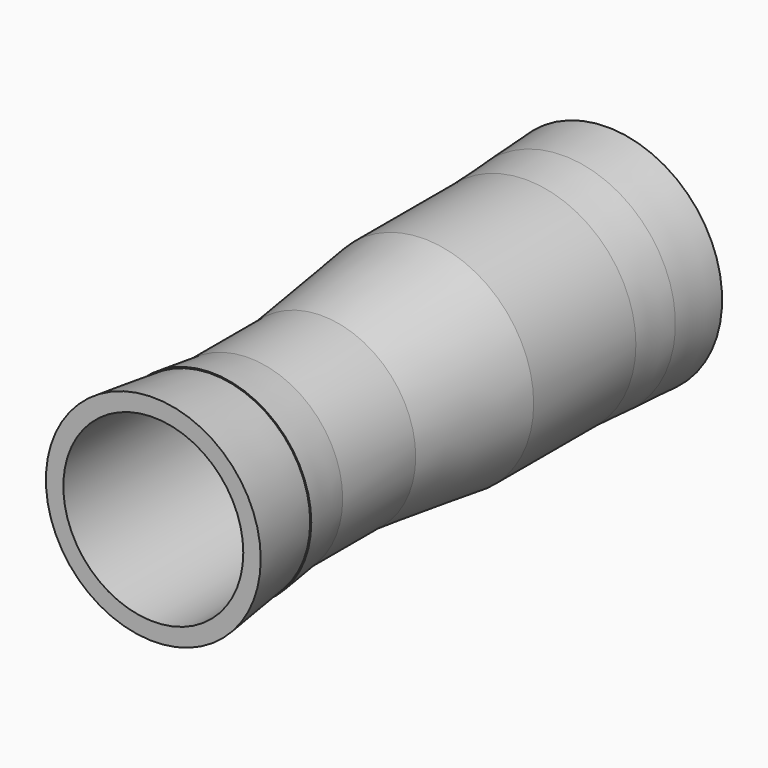
from build123d import *

# Parameters (mm, degrees)
F0_R      = 60
F1_DEPTH  = 70
F2_R      = 60
F3_DEPTH  = 70
F3_TAPER  = 7
F5_R      = 54.9341030365
F6_DEPTH  = 25.4
F7_R      = 47.9617586767
F8_DEPTH  = 205.994
F4_R      = 51.4050807368
F12_DEPTH = 50
F13_R     = 51.4050807368
F14_DEPTH = 25.4
F14_TAPER = -7
F15_R     = 53.9269190887
F16_DEPTH = 40
F16_TAPER = -7
F11_R     = 60
F17_DEPTH = 25.4
F17_TAPER = -3
F18_R     = 61.3311575938
F19_DEPTH = 30
F19_TAPER = -3
F20_R     = 46.550299856
F21_DEPTH = 374.396
F22_R     = 49.2833226897
F23_DEPTH = 359.918
F24_R     = 41.0727260018
F25_DEPTH = 101.854


with BuildPart() as f1:
    # F0 (on Front) → F1 (new body)
    with BuildSketch(Plane.XZ):
        Circle(F0_R)
    extrude(amount=-F1_DEPTH)

    # F2 (on face) → F3 (join)
    with BuildSketch(Plane.XZ):
        Circle(F2_R)
    extrude(amount=F3_DEPTH, taper=F3_TAPER)

    # F5 (on face) → F6 (cut)
    with BuildSketch(Plane(origin=(0, 70, 0), x_dir=(-1, 0, 0), z_dir=(0, 1, 0))):
        Circle(F5_R)
    extrude(amount=-F6_DEPTH, mode=Mode.SUBTRACT)

    # F7 (on face) → F8 (cut)
    with BuildSketch(Plane.XZ.offset(70)):
        Circle(F7_R)
    extrude(amount=-F8_DEPTH, mode=Mode.SUBTRACT)

    # F4 (on face) → F12 (join)
    with BuildSketch(Plane.XZ.offset(70)):
        Circle(F4_R)
    extrude(amount=F12_DEPTH)

    # F13 (on face) → F14 (join)
    with BuildSketch(Plane.XZ.offset(120)):
        Circle(F13_R)
    extrude(amount=F14_DEPTH, taper=F14_TAPER)

    # F15 (on face) → F16 (join)
    with BuildSketch(Plane.XZ.offset(145.4)):
        Circle(F15_R)
    extrude(amount=F16_DEPTH, taper=F16_TAPER)

    # F11 (on face) → F17 (join)
    with BuildSketch(Plane(origin=(0, 70, 0), x_dir=(-1, 0, 0), z_dir=(0, 1, 0))):
        Circle(F11_R)
    extrude(amount=F17_DEPTH, taper=F17_TAPER)

    # F18 (on face) → F19 (join)
    with BuildSketch(Plane(origin=(0, 95.4, 0), x_dir=(-1, 0, 0), z_dir=(0, 1, 0))):
        Circle(F18_R)
    extrude(amount=F19_DEPTH, taper=F19_TAPER)

    # F20 (on face) → F21 (cut)
    with BuildSketch(Plane.XZ.offset(185.4)):
        Circle(F20_R)
    extrude(amount=-F21_DEPTH, mode=Mode.SUBTRACT)

    # F22 (on face) → F23 (cut)
    with BuildSketch(Plane.XZ.offset(185.4)):
        Circle(F22_R)
    extrude(amount=-F23_DEPTH, mode=Mode.SUBTRACT)

    # F24 (on Right) → F25 (cut)
    with BuildSketch(Plane.YZ):
        Circle(F24_R)
    extrude(amount=-F25_DEPTH, mode=Mode.SUBTRACT)


solid = f1.part
